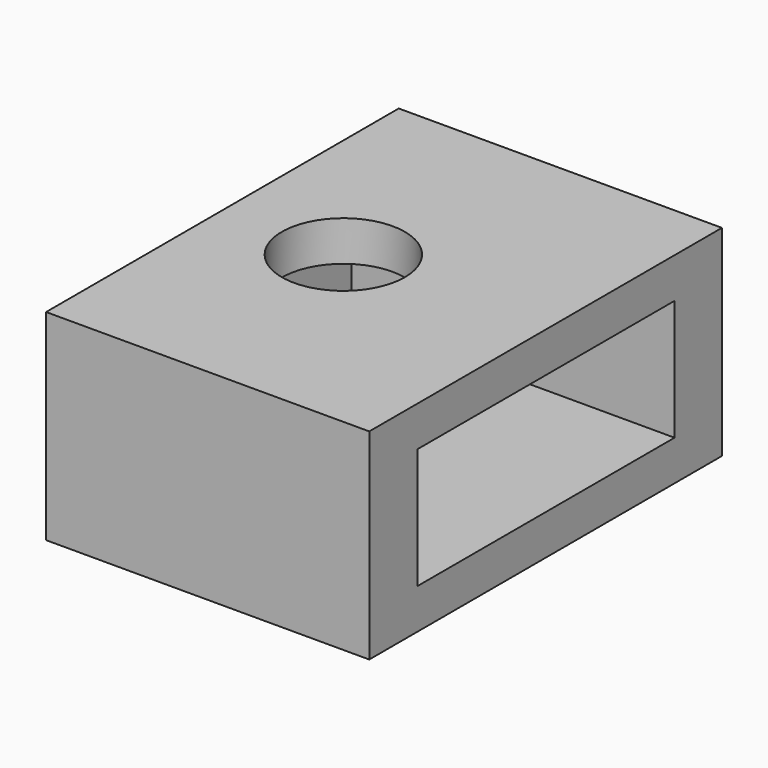
from build123d import *

# Parameters (mm, degrees)
BOX002_W     = 8.5
BOX002_H     = 8
BOX002_DEPTH = 3
SKETCH008_W  = 8.045495
SKETCH008_H  = 10.974572
SKETCH008_R  = 1.530969
PAD008_DEPTH = 5


with BuildPart() as body046:
    # Box002 → Box002 (new body)
    with BuildSketch(Plane(origin=(-3, -4, 1), x_dir=(1, 0, 0), z_dir=(0, 0, 1))):
        with Locations((4.25, 4)):
            Rectangle(BOX002_W, BOX002_H)
    extrude(amount=BOX002_DEPTH)


with BuildPart() as body046_1:
    # BaseFeature009 placement: moved
    add(body046.part.moved(Location((3, 4, -1))))


with BuildPart() as body046_2:
    # Body046 placement: moved
    add(body046_1.part.moved(Location((-3, -4, 1))))


with BuildPart() as cut010:
    # Sketch008 → Pad008 (new body)
    with BuildSketch(Plane.XY):
        with Locations((1.022447, -0.012719)):
            Rectangle(SKETCH008_W, SKETCH008_H)
        Circle(SKETCH008_R, mode=Mode.SUBTRACT)
    extrude(amount=PAD008_DEPTH)

    # Cut010: cut Body046
    add(body046_2.part, mode=Mode.SUBTRACT)


solid = cut010.part
